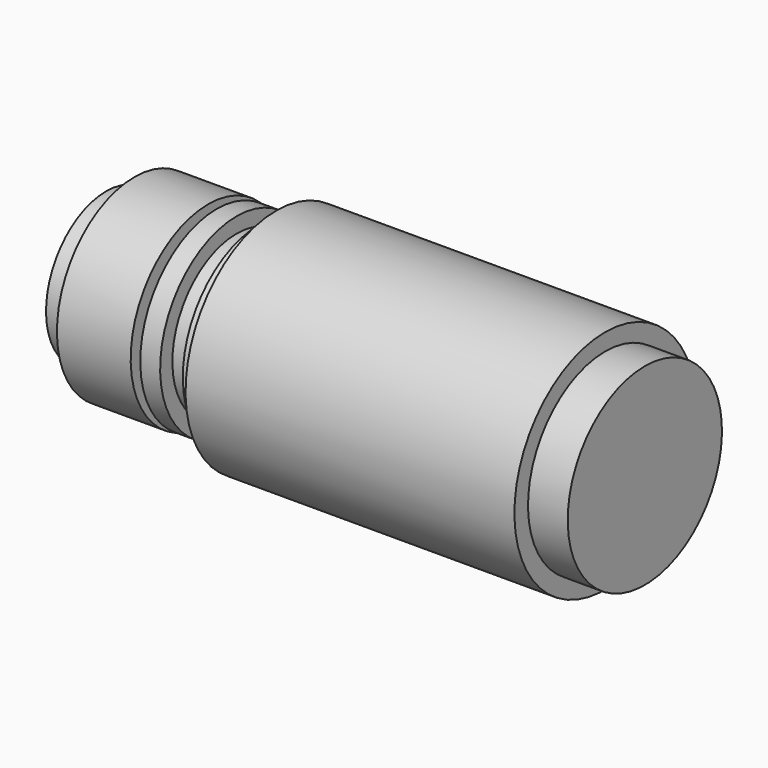
from build123d import *

# Parameters (mm, degrees)
F3_D     = 10.3
F3_DEPTH = 17.25
F3_TIP   = 3.094432188


with BuildPart() as f1:
    # F0 (on Front) → F1 (revolve)
    with BuildSketch(Plane.XZ):
        Polygon((-66.909504354, 13.3051262531), (-66.909504354, 0.0551262531), (28.090495646, 0.0551262531), (28.090495646, 17.0551262531), (21.090495646, 17.0551262531), (21.090495646, 20.0551262531), (-36.909504354, 20.0551262531), (-36.909504354, 16.9051262531), (-39.909504354, 16.9051262531), (-39.909504354, 14.2051262531), (-43.909504354, 14.2051262531), (-43.909504354, 16.9051262531), (-47.409504354, 16.9051262531), (-47.409504354, 14.2051262531), (-48.909504354, 14.2051262531), (-48.909504354, 17.1507116718), (-61.909504354, 17.1507116718), (-61.909504354, 13.3051262531), align=None)
    revolve(axis=Axis((-19.409504354, 0, 0.0551262531), (1, 0, 0)))

    # F3
    with Locations(Plane(origin=(-66.909504354, 0, 0), x_dir=(0, -1, 0), z_dir=(-1, 0, 0))):
        with Locations((0, 0)):
            Hole(F3_D / 2, depth=F3_DEPTH)
            with Locations((0, 0, -(F3_DEPTH + F3_TIP / 2))):  # 118° drill point
                Cone(0, F3_D / 2, F3_TIP, mode=Mode.SUBTRACT)


solid = f1.part
